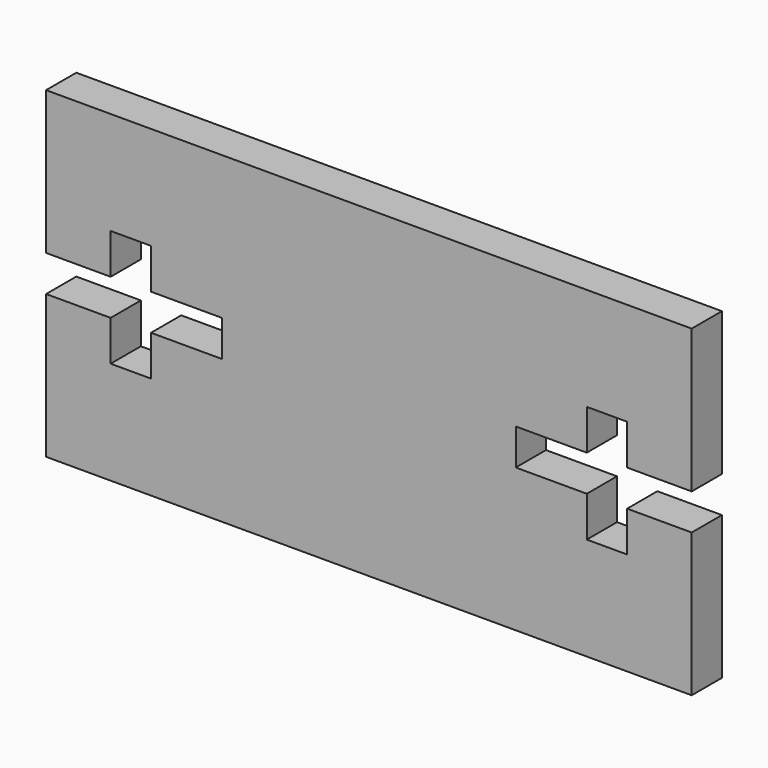
from build123d import *

# Parameters (mm, degrees)
F1_DEPTH = 2.9718


with BuildPart() as f1:
    # F0 (on Front) → F1 (new body)
    with BuildSketch(Plane.XZ):
        Polygon((0, 11.2776), (0, 0), (50.8, 0), (50.8, 11.2776), (45.72, 11.2776), (45.72, 8.1026), (42.545, 8.1026), (42.545, 11.2776), (36.957, 11.2776), (36.957, 14.1224), (42.545, 14.1224), (42.545, 17.2974), (45.72, 17.2974), (45.72, 14.1224), (50.8, 14.1224), (50.8, 25.4), (0, 25.4), (0, 14.1224), (5.08, 14.1224), (5.08, 17.2974), (8.255, 17.2974), (8.255, 14.1224), (13.843, 14.1224), (13.843, 11.2776), (8.255, 11.2776), (8.255, 8.1026), (5.08, 8.1026), (5.08, 11.2776), align=None)
    extrude(amount=-F1_DEPTH)


solid = f1.part
